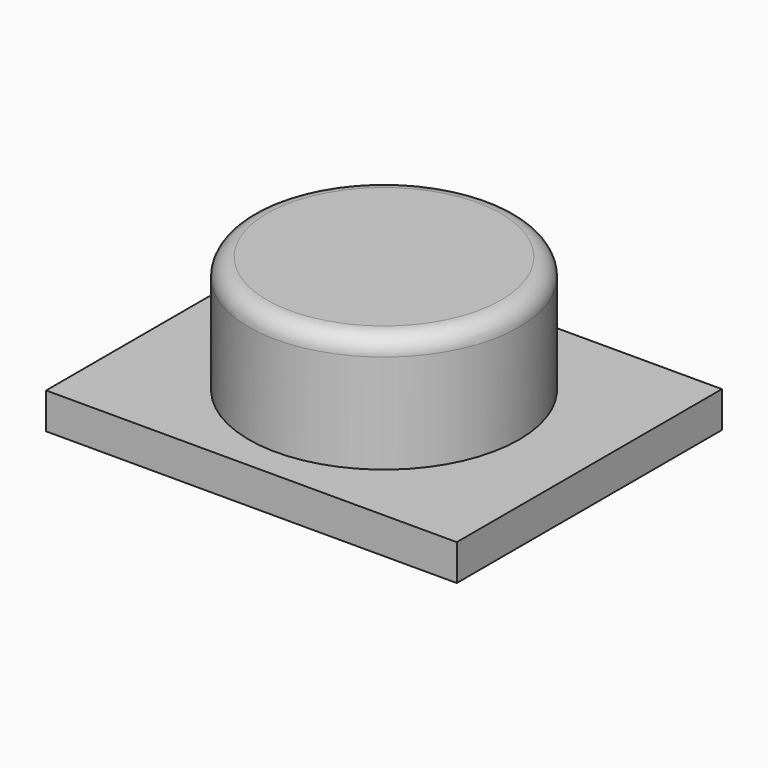
from build123d import *

# Parameters (mm, degrees)
SKETCH023_R  = 0.75
PAD015_DEPTH = 0.65
SKETCH024_W  = 2.28
SKETCH024_H  = 1.84
PAD016_DEPTH = 0.2
FILLET003_R  = 0.1


with BuildPart() as part:
    # Sketch023 (on DatumPlane) → Pad015 (new body)
    with BuildSketch(Plane.XY.offset(1.7)):
        Circle(SKETCH023_R)
    extrude(amount=-PAD015_DEPTH)

    # Sketch024 (on Face3 of Pad015) → Pad016 (join)
    with BuildSketch(Plane(origin=(0, 0, 1.05), x_dir=(1, 0, 0), z_dir=(0, 0, -1))):
        Rectangle(SKETCH024_W, SKETCH024_H)
    extrude(amount=PAD016_DEPTH)

    # Fillet003
    fillet003_edges = [part.edges().sort_by_distance(p)[0] for p in [
        (-0.75, 0, 1.7),
    ]]
    fillet(fillet003_edges, radius=FILLET003_R)


solid = part.part
